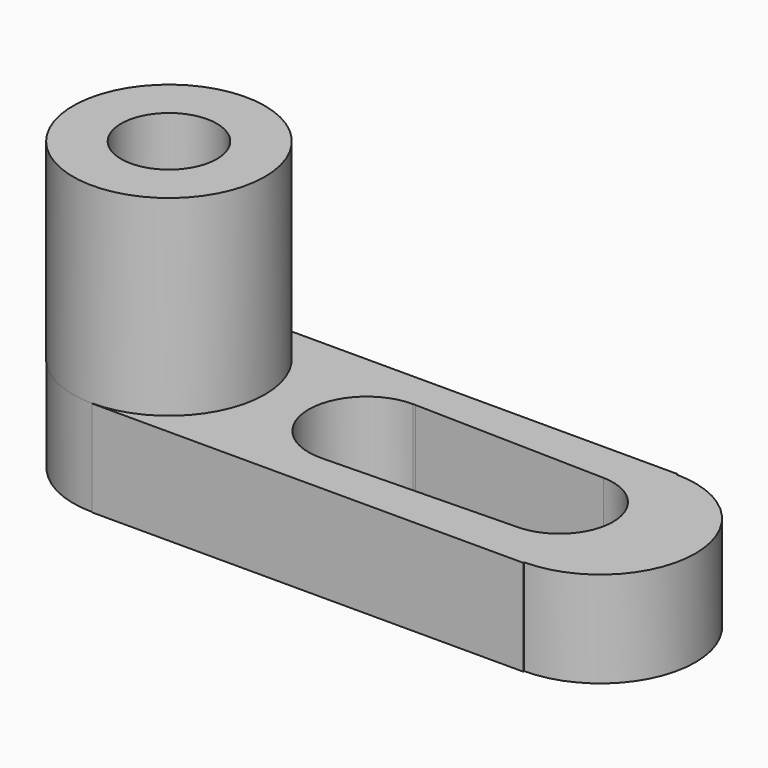
from build123d import *

# Parameters (mm, degrees)
F1_DEPTH = 25.4
F2_R     = 25.43243
F3_DEPTH = 50.8
F4_R     = 12.7
F5_DEPTH = 177.8
F7_DEPTH = 203.2


with BuildPart() as f1:
    # F0 (on Top) → F1 (new body)
    with BuildSketch(Plane.XY):
        with BuildLine():
            Line((62.257019, 27.917736), (-52.042981, 27.917736))
            Line((-52.042981, 27.917736), (-52.042981, 27.772728))
            ThreePointArc((-52.042981, 27.772728), (-77.40406, 2.411649), (-52.042981, -22.94943))
            Line((-52.042981, -22.94943), (-52.042981, -23.094439))
            Line((-52.042981, -23.094439), (62.257019, -23.094439))
            Line((62.257019, -23.094439), (62.257019, -22.788397))
            ThreePointArc((62.257019, -22.788397), (87.457065, 2.411649), (62.257019, 27.611695))
            Line((62.257019, 27.611695), (62.257019, 27.917736))
        make_face()
    extrude(amount=F1_DEPTH)

    # F2 (on face) → F3 (join)
    with BuildSketch(Plane.XY.offset(25.4)):
        with Locations((-52.042981, 2.411649)):
            Circle(F2_R)
    extrude(amount=F3_DEPTH)

    # F4 (on face) → F5 (cut)
    with BuildSketch(Plane.XY.offset(76.2)):
        with Locations((-52.042981, 2.411649)):
            Circle(F4_R)
    extrude(amount=-F5_DEPTH, mode=Mode.SUBTRACT)

    # F6 (on face) → F7 (cut)
    with BuildSketch(Plane.XY.offset(25.4)):
        with BuildLine():
            Line((0, 18.215184), (0.714671, 18.198568))
            ThreePointArc((0.714671, 18.198568), (0.357432, 18.211029), (0, 18.215184))
        make_face()
        with BuildLine():
            Line((51.425615, 17.019568), (0.714671, 18.198568))
            Line((0.714671, 18.198568), (0, 18.215184))
            ThreePointArc((0, 18.215184), (-15.376876, 2.655535), (0.363372, -12.536422))
            Line((0.363372, -12.536422), (50.766153, -11.345099))
            ThreePointArc((50.766153, -11.345099), (65.278218, 2.507503), (51.425615, 17.019568))
        make_face()
    extrude(amount=-F7_DEPTH, mode=Mode.SUBTRACT)


solid = f1.part
